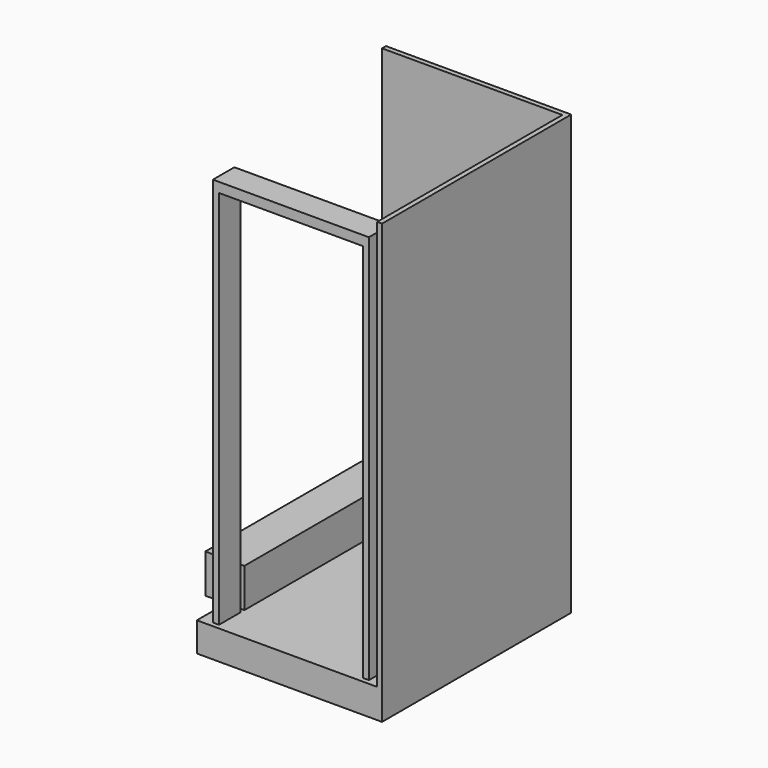
from build123d import *

# Parameters (mm, degrees)
F1_DEPTH = 139.7
F2_W     = 939.8
F2_H     = 1206.5
F3_DEPTH = 152.4
F4_W     = 939.8
F4_H     = 2286
F5_DEPTH = 25.4
F6_W     = 1231.9
F6_H     = 2286
F7_DEPTH = 25.4
F8_W     = 203.2
F8_H     = 1016
F9_DEPTH = 203.2


with BuildPart() as f1:
    # F0 (on Front) → F1 (new body)
    with BuildSketch(Plane.XZ):
        Polygon((-374.65, 0), (-374.65, 1981.2), (374.65, 1981.2), (374.65, 0), (406.4, 0), (406.4, 2032), (-406.4, 2032), (-406.4, 0), align=None)
    extrude(amount=F1_DEPTH)

    # F2 (on face) → F3 (join)
    with BuildSketch(Plane(origin=(0, 0, 0), x_dir=(1, 0, 0), z_dir=(0, 0, -1))):
        with Locations((0, -438.15)):
            Rectangle(F2_W, F2_H)
    extrude(amount=F3_DEPTH)

    # F4 (on face) → F5 (join)
    with BuildSketch(Plane(origin=(0, 1041.4, 0), x_dir=(-1, 0, 0), z_dir=(0, 1, 0))):
        with Locations((0, 990.6)):
            Rectangle(F4_W, F4_H)
    extrude(amount=F5_DEPTH)

    # F6 (on face) → F7 (join)
    with BuildSketch(Plane.YZ.offset(469.9)):
        with Locations((450.85, 990.6)):
            Rectangle(F6_W, F6_H)
    extrude(amount=F7_DEPTH)

    # F8 (on face) → F9 (join)
    with BuildSketch(Plane.XY):
        with Locations((-476.25, 533.4)):
            Rectangle(F8_W, F8_H)
    extrude(amount=F9_DEPTH)


solid = f1.part
